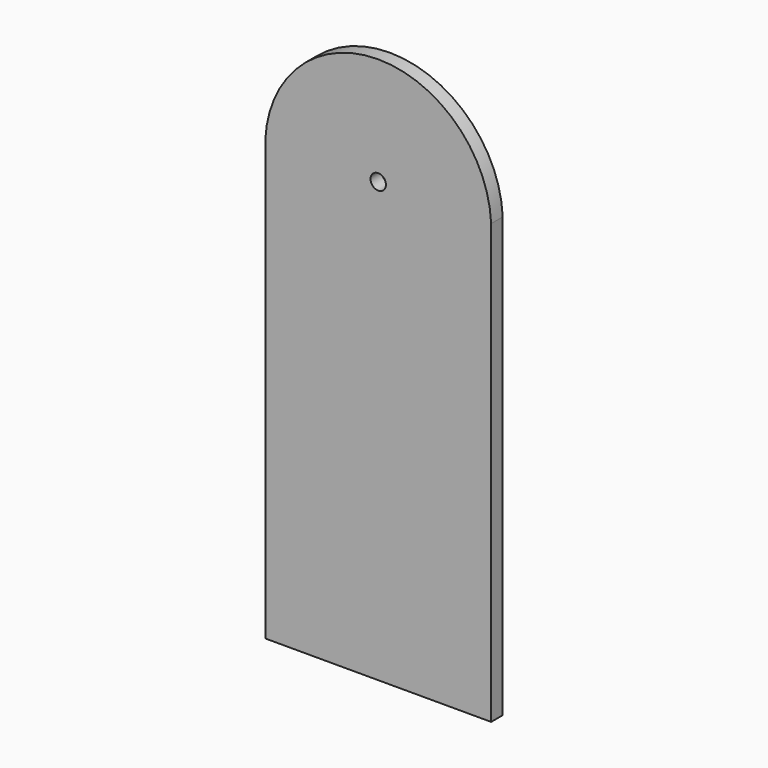
from build123d import *

# Parameters (mm, degrees)
F0_R     = 1.7
F1_DEPTH = 3.2


with BuildPart() as f1:
    # F0 (on Front) → F1 (new body)
    with BuildSketch(Plane.XZ):
        with BuildLine():
            Line((-25, 31.269333), (-25, -65.836833))
            Line((-25, -65.836833), (0, -65.836833))
            Line((0, -65.836833), (25.000389, -65.836833))
            Line((25.000389, -65.836833), (25.000389, 31.2779))
            ThreePointArc((25.000389, 31.2779), (-0.003899, 55.163167), (-25, 31.269333))
        make_face()
        with Locations((0.000389, 31.273616)):
            Circle(F0_R, mode=Mode.SUBTRACT)
    extrude(amount=F1_DEPTH)


solid = f1.part
